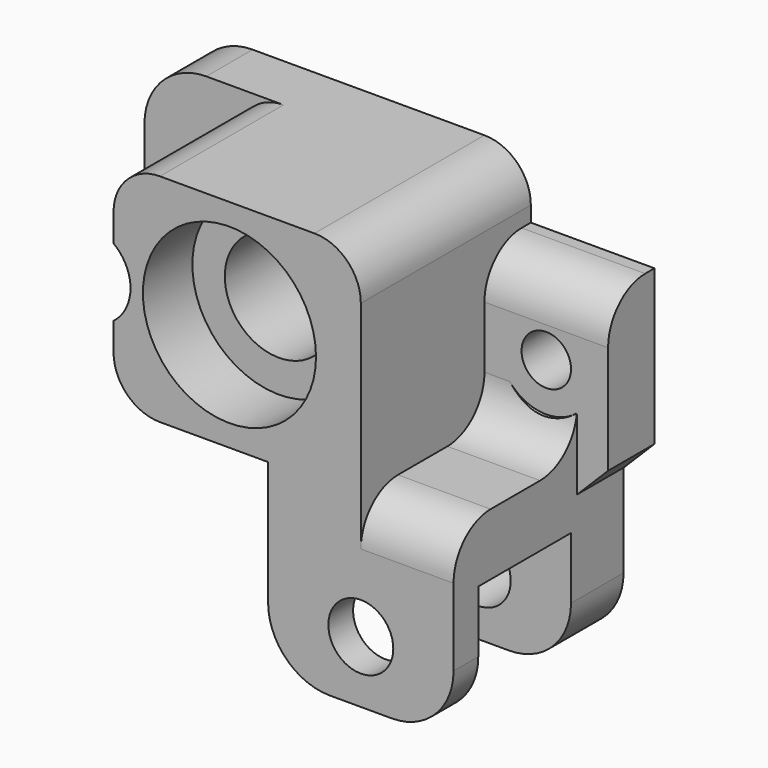
from build123d import *

# Parameters (mm, degrees)
CYLINDER873_R               = 3.1
CYLINDER873_DEPTH           = 5
CYLINDER873_ROLL_ANGLE      = 90
CYLINDER872_R               = 5.6
CYLINDER872_DEPTH           = 4.5
CYLINDER872_ROLL_ANGLE      = 90
CYLINDER871_R               = 5.6
CYLINDER871_DEPTH           = 4
CYLINDER871_ROLL_ANGLE      = 90
CYLINDER870_R               = 3.5
CYLINDER870_DEPTH           = 14
CYLINDER870_ROLL_ANGLE      = 90
CYLINDER866_R               = 1.6
CYLINDER866_DEPTH           = 20
CYLINDER866_ROLL_ANGLE      = 90
CYLINDER869_R               = 2.1
CYLINDER869_DEPTH           = 20
CYLINDER869_ROLL_ANGLE      = 90
CYLINDER868_R               = 1.6
CYLINDER868_DEPTH           = 6.75
CYLINDER868_ROLL_ANGLE      = 90
CYLINDER867_R               = 2.8
CYLINDER867_DEPTH           = 10
CYLINDER867_ROLL_ANGLE      = 90
BOX542_W                    = 16
BOX542_H                    = 13
BOX542_DEPTH                = 14
BOX539_W                    = 12
BOX539_H                    = 7.5
BOX539_DEPTH                = 8
BOX538_W                    = 12
BOX538_H                    = 13.75
BOX538_DEPTH                = 12
BOX540_W                    = 30
BOX540_H                    = 3.75
BOX540_DEPTH                = 10
BOX541_W                    = 22
BOX541_H                    = 3.75
BOX541_DEPTH                = 14
FILLET352_R                 = 4
FILLET353_R                 = 3
FILLET354_R                 = 3
FILLET355_R                 = 4
FILLET356_R                 = 3
BOX543_W                    = 16
BOX543_H                    = 3.75
BOX543_DEPTH                = 2
CHAMFER102_SIZE             = 1.99
CYLINDER877_R               = 2.8
CYLINDER877_DEPTH           = 11
CYLINDER877_ROLL_ANGLE      = 89.99995
CYLINDER877_PITCH_ANGLE     = -5e-06
CYLINDER877_PLACEMENT_ANGLE = -10.999997
BOX545_W                    = 1.9
BOX545_H                    = 10
BOX545_DEPTH                = 8


with BuildPart() as cylinder1034:
    # Cylinder873 → Cylinder873 (new body)
    with BuildSketch(Plane.XY):
        Circle(CYLINDER873_R)
    extrude(amount=CYLINDER873_DEPTH)


with BuildPart() as cylinder1034_1:
    # Cylinder873 roll: moved
    add(cylinder1034.part.rotate(Axis((0, 0, 0), (1, 0, 0)), CYLINDER873_ROLL_ANGLE))


with BuildPart() as cylinder1034_2:
    # Cylinder873 placement: moved
    add(cylinder1034_1.part.moved(Location((49.5, 49.75, -13))))


with BuildPart() as cylinder1033:
    # Cylinder872 → Cylinder872 (new body)
    with BuildSketch(Plane.XY):
        Circle(CYLINDER872_R)
    extrude(amount=CYLINDER872_DEPTH)


with BuildPart() as cylinder1033_1:
    # Cylinder872 roll: moved
    add(cylinder1033.part.rotate(Axis((0, 0, 0), (1, 0, 0)), CYLINDER872_ROLL_ANGLE))


with BuildPart() as cylinder1033_2:
    # Cylinder872 placement: moved
    add(cylinder1033_1.part.moved(Location((38, 53.5, -11))))


with BuildPart() as cylinder1032:
    # Cylinder871 → Cylinder871 (new body)
    with BuildSketch(Plane.XY):
        Circle(CYLINDER871_R)
    extrude(amount=CYLINDER871_DEPTH)


with BuildPart() as cylinder1032_1:
    # Cylinder871 roll: moved
    add(cylinder1032.part.rotate(Axis((0, 0, 0), (1, 0, 0)), CYLINDER871_ROLL_ANGLE))


with BuildPart() as cylinder1032_2:
    # Cylinder871 placement: moved
    add(cylinder1032_1.part.moved(Location((38, 43.75, -11))))


with BuildPart() as fusion560:
    # Cylinder870 → Cylinder870 (new body)
    with BuildSketch(Plane.XY):
        Circle(CYLINDER870_R)
    extrude(amount=CYLINDER870_DEPTH)


with BuildPart() as fusion560_1:
    # Cylinder870 roll: moved
    add(fusion560.part.rotate(Axis((0, 0, 0), (1, 0, 0)), CYLINDER870_ROLL_ANGLE))


with BuildPart() as fusion560_2:
    # Cylinder870 placement: moved
    add(fusion560_1.part.moved(Location((38, 53.5, -11))))

    # Fusion560: union Cylinder1033, Cylinder1032
    add(cylinder1033_2.part)
    add(cylinder1032_2.part)


with BuildPart() as fusion560_3:
    # Fusion560 placement: moved
    add(fusion560_2.part.moved(Location((-1, 0, 0))))


with BuildPart() as cylinder1027:
    # Cylinder866 → Cylinder866 (new body)
    with BuildSketch(Plane.XY):
        Circle(CYLINDER866_R)
    extrude(amount=CYLINDER866_DEPTH)


with BuildPart() as cylinder1027_1:
    # Cylinder866 roll: moved
    add(cylinder1027.part.rotate(Axis((0, 0, 0), (1, 0, 0)), CYLINDER866_ROLL_ANGLE))


with BuildPart() as cylinder1027_2:
    # Cylinder866 placement: moved
    add(cylinder1027_1.part.moved(Location((49.5, 56.5, -13))))


with BuildPart() as cylinder1030:
    # Cylinder869 → Cylinder869 (new body)
    with BuildSketch(Plane.XY):
        Circle(CYLINDER869_R)
    extrude(amount=CYLINDER869_DEPTH)


with BuildPart() as cylinder1030_1:
    # Cylinder869 roll: moved
    add(cylinder1030.part.rotate(Axis((0, 0, 0), (1, 0, 0)), CYLINDER869_ROLL_ANGLE))


with BuildPart() as cylinder1030_2:
    # Cylinder869 placement: moved
    add(cylinder1030_1.part.moved(Location((45.5, 56.5, -26))))


with BuildPart() as fusion559:
    # Cylinder868 → Cylinder868 (new body)
    with BuildSketch(Plane.XY):
        Circle(CYLINDER868_R)
    extrude(amount=CYLINDER868_DEPTH)


with BuildPart() as fusion559_1:
    # Cylinder868 roll: moved
    add(fusion559.part.rotate(Axis((0, 0, 0), (1, 0, 0)), CYLINDER868_ROLL_ANGLE))


with BuildPart() as fusion559_2:
    # Cylinder868 placement: moved
    add(fusion559_1.part.moved(Location((28.5, 56.5, -11))))

    # Fusion559: union Cylinder1027, Cylinder1030
    add(cylinder1027_2.part)
    add(cylinder1030_2.part)


with BuildPart() as cylinder1028:
    # Cylinder867 → Cylinder867 (new body)
    with BuildSketch(Plane.XY):
        Circle(CYLINDER867_R)
    extrude(amount=CYLINDER867_DEPTH)


with BuildPart() as cylinder1028_1:
    # Cylinder867 roll: moved
    add(cylinder1028.part.rotate(Axis((0, 0, 0), (1, 0, 0)), CYLINDER867_ROLL_ANGLE))


with BuildPart() as cylinder1028_2:
    # Cylinder867 placement: moved
    add(cylinder1028_1.part.moved(Location((28.5, 49.75, -11))))


with BuildPart() as cube733:
    # Box542 → Box542 (new body)
    with BuildSketch(Plane(origin=(29.5, 39.75, -18), x_dir=(1, 0, 0), z_dir=(0, 0, 1))):
        with Locations((8, 6.5)):
            Rectangle(BOX542_W, BOX542_H)
    extrude(amount=BOX542_DEPTH)


with BuildPart() as cube730:
    # Box539 → Box539 (new body)
    with BuildSketch(Plane(origin=(389.5, 41.75, -32), x_dir=(1, 0, 0), z_dir=(0, 0, 1))):
        with Locations((6, 3.75)):
            Rectangle(BOX539_W, BOX539_H)
    extrude(amount=BOX539_DEPTH)


with BuildPart() as cut892:
    # Box538 → Box538 (new body)
    with BuildSketch(Plane(origin=(389.5, 39.75, -32), x_dir=(1, 0, 0), z_dir=(0, 0, 1))):
        with Locations((6, 6.875)):
            Rectangle(BOX538_W, BOX538_H)
    extrude(amount=BOX538_DEPTH)

    # Cut663: cut Cube730
    add(cube730.part, mode=Mode.SUBTRACT)


with BuildPart() as fusion556:
    # Box540 → Box540 (new body)
    with BuildSketch(Plane(origin=(373.5, 49.75, -20), x_dir=(1, 0, 0), z_dir=(0, 0, 1))):
        with Locations((15, 1.875)):
            Rectangle(BOX540_W, BOX540_H)
    extrude(amount=BOX540_DEPTH)

    # Fusion556: union Cut892
    add(cut892.part)


with BuildPart() as fusion556_1:
    # Fusion556 placement: moved
    add(fusion556.part.moved(Location((-350, 0, 2))))


with BuildPart() as fillet356:
    # Box541 → Box541 (new body)
    with BuildSketch(Plane(origin=(23.5, 49.75, -18), x_dir=(1, 0, 0), z_dir=(0, 0, 1))):
        with Locations((11, 1.875)):
            Rectangle(BOX541_W, BOX541_H)
    extrude(amount=BOX541_DEPTH)

    # Fusion557: union Fusion556
    add(fusion556_1.part)

    # Fusion558: union Cube733
    add(cube733.part)

    # Cut664: cut Cylinder1028
    add(cylinder1028_2.part, mode=Mode.SUBTRACT)

    # Cut665: cut Fusion559
    add(fusion559_2.part, mode=Mode.SUBTRACT)

    # Cut666: cut Fusion560
    add(fusion560_3.part, mode=Mode.SUBTRACT)

    # Fillet352
    fillet352_edges = [fillet356.edges().sort_by_distance(p)[0] for p in [
        (51.5, 40.75, -30),
        (51.5, 51.375, -30),
        (39.5, 40.75, -30),
        (39.5, 51.375, -30),
    ]]
    fillet(fillet352_edges, radius=FILLET352_R)

    # Fillet353
    fillet353_edges = [fillet356.edges().sort_by_distance(p)[0] for p in [
        (49.5, 49.75, -8),
        (48.5, 39.75, -18),
    ]]
    fillet(fillet353_edges, radius=FILLET353_R)

    # Fillet354
    fillet354_edges = [fillet356.edges().sort_by_distance(p)[0] for p in [
        (48.5, 49.75, -18),
    ]]
    fillet(fillet354_edges, radius=FILLET354_R)

    # Cut667: cut Cylinder1034
    add(cylinder1034_2.part, mode=Mode.SUBTRACT)

    # Fillet355
    fillet355_edges = [fillet356.edges().sort_by_distance(p)[0] for p in [
        (23.5, 51.625, -18),
        (23.5, 51.625, -4),
    ]]
    fillet(fillet355_edges, radius=FILLET355_R)

    # Fillet356
    fillet356_edges = [fillet356.edges().sort_by_distance(p)[0] for p in [
        (29.5, 44.75, -18),
        (45.5, 46.625, -4),
        (29.5, 44.75, -4),
    ]]
    fillet(fillet356_edges, radius=FILLET356_R)


with BuildPart() as chamfer102:
    # Box543 → Box543 (new body)
    with BuildSketch(Plane(origin=(37.5, 49.75, -20), x_dir=(1, 0, 0), z_dir=(0, 0, 1))):
        with Locations((8, 1.875)):
            Rectangle(BOX543_W, BOX543_H)
    extrude(amount=BOX543_DEPTH)

    # Chamfer102
    chamfer102_edges = [chamfer102.edges().sort_by_distance(p)[0] for p in [
        (37.5, 51.625, -20),
        (53.5, 51.625, -20),
    ]]
    chamfer(chamfer102_edges, length=CHAMFER102_SIZE)


with BuildPart() as cylinder1038:
    # Cylinder877 → Cylinder877 (new body)
    with BuildSketch(Plane.XY):
        Circle(CYLINDER877_R)
    extrude(amount=CYLINDER877_DEPTH)


with BuildPart() as cylinder1038_1:
    # Cylinder877 roll: moved
    add(cylinder1038.part.rotate(Axis((0, 0, 0), (1, 0, 0)), CYLINDER877_ROLL_ANGLE))


with BuildPart() as cylinder1038_2:
    # Cylinder877 pitch: moved
    add(cylinder1038_1.part.rotate(Axis((0, 0, 0), (0, 1, 0)), CYLINDER877_PITCH_ANGLE))


with BuildPart() as cylinder1038_3:
    # Cylinder877 placement: moved
    add(cylinder1038_2.part.moved(Location((29.8503, 50.5822, -11))).rotate(Axis((29.8503, 50.5822, -11), (0, 0, 1)), CYLINDER877_PLACEMENT_ANGLE))


with BuildPart() as obj1:
    # Box545 → Box545 (new body)
    with BuildSketch(Plane(origin=(29.5, 39.75, -15), x_dir=(1, 0, 0), z_dir=(0, 0, 1))):
        with Locations((0.95, 5)):
            Rectangle(BOX545_W, BOX545_H)
    extrude(amount=BOX545_DEPTH)

    # Cut669: cut Cylinder1038
    add(cylinder1038_3.part, mode=Mode.SUBTRACT)

    # Fusion563: union Fillet356, Chamfer102
    add(fillet356.part)
    add(chamfer102.part)


solid = obj1.part
